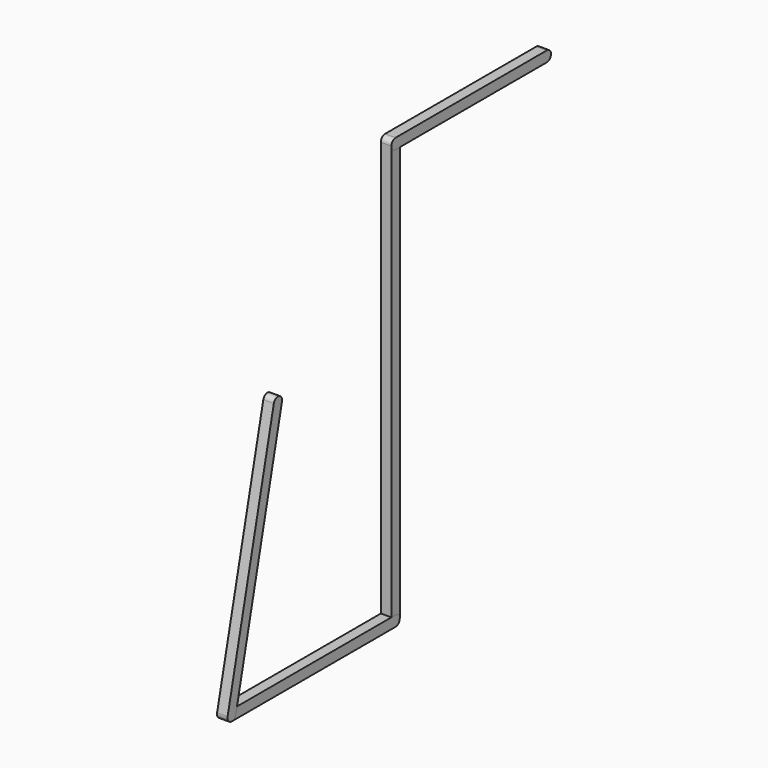
from build123d import *

# Parameters (mm, degrees)
F1_DEPTH = 25.4
F2_DEPTH = 25.4
F3_DEPTH = 25.4
F4_DEPTH = 25.4


with BuildPart() as f1:
    # F0 (on Right) → F1 (new body)
    with BuildSketch(Plane.YZ):
        with BuildLine():
            ThreePointArc((12.7, 1016), (8.9802561211, 1024.9802561211), (0, 1028.7))
            ThreePointArc((0, 1028.7), (-8.9802561211, 1024.9802561211), (-12.7, 1016))
            ThreePointArc((-12.7, 1016), (-8.9802561211, 1007.0197438789), (0, 1003.3))
            ThreePointArc((0, 1003.3), (8.9802561211, 1007.0197438789), (12.7, 1016))
        make_face()
        with BuildLine():
            Line((0, 1003.3), (12.7, 1003.3))
            Line((12.7, 1003.3), (12.7, 1016))
            ThreePointArc((12.7, 1016), (8.9802561211, 1007.0197438789), (0, 1003.3))
        make_face()
        with BuildLine():
            ThreePointArc((0, -12.7), (8.9802561211, -8.9802561211), (12.7, 0))
            ThreePointArc((12.7, 0), (8.9802561211, 8.9802561211), (0, 12.7))
            ThreePointArc((0, 12.7), (-8.9802561211, 8.9802561211), (-12.7, 0))
            ThreePointArc((-12.7, 0), (-8.9802561211, -8.9802561211), (0, -12.7))
        make_face()
        with BuildLine():
            Line((0, 12.7), (-12.7, 12.7))
            Line((-12.7, 12.7), (-12.7, 0))
            ThreePointArc((-12.7, 0), (-8.9802561211, 8.9802561211), (0, 12.7))
        make_face()
        with BuildLine():
            Line((12.7, 0), (12.7, 1003.3))
            Line((12.7, 1003.3), (0, 1003.3))
            ThreePointArc((0, 1003.3), (-8.9802561211, 1007.0197438789), (-12.7, 1016))
            Line((-12.7, 1016), (-12.7, 12.7))
            Line((-12.7, 12.7), (0, 12.7))
            ThreePointArc((0, 12.7), (8.9802561211, 8.9802561211), (12.7, 0))
        make_face()
    extrude(amount=F1_DEPTH)


with BuildPart() as f2:
    # F0 (on Right) → F2 (new body)
    with BuildSketch(Plane.YZ):
        with BuildLine():
            ThreePointArc((457.2, 1003.3), (444.5, 1016), (457.2, 1028.7))
            Line((457.2, 1028.7), (0, 1028.7))
            ThreePointArc((0, 1028.7), (8.9802561211, 1024.9802561211), (12.7, 1016))
            Line((12.7, 1016), (12.7, 1003.3))
            Line((12.7, 1003.3), (457.2, 1003.3))
        make_face()
        with BuildLine():
            ThreePointArc((457.2, 1003.3), (466.1802561211, 1007.0197438789), (469.9, 1016))
            ThreePointArc((469.9, 1016), (466.1802561211, 1024.9802561211), (457.2, 1028.7))
            ThreePointArc((457.2, 1028.7), (444.5, 1016), (457.2, 1003.3))
        make_face()
        with BuildLine():
            ThreePointArc((12.7, 1016), (8.9802561211, 1024.9802561211), (0, 1028.7))
            ThreePointArc((0, 1028.7), (-8.9802561211, 1024.9802561211), (-12.7, 1016))
            ThreePointArc((-12.7, 1016), (-8.9802561211, 1007.0197438789), (0, 1003.3))
            ThreePointArc((0, 1003.3), (8.9802561211, 1007.0197438789), (12.7, 1016))
        make_face()
        with BuildLine():
            Line((0, 1003.3), (12.7, 1003.3))
            Line((12.7, 1003.3), (12.7, 1016))
            ThreePointArc((12.7, 1016), (8.9802561211, 1007.0197438789), (0, 1003.3))
        make_face()
    extrude(amount=F2_DEPTH)


with BuildPart() as f3:
    # F0 (on Right) → F3 (new body)
    with BuildSketch(Plane.YZ):
        with BuildLine():
            ThreePointArc((-507.6791004453, 2.8368771854), (-505.2327322589, -7.9139642325), (-495.3, -12.7))
            ThreePointArc((-495.3, -12.7), (-487.3860357675, -9.9327322589), (-482.9208995547, -2.8368771854))
            ThreePointArc((-482.9208995547, -2.8368771854), (-482.6804798892, -1.4274845611), (-482.6, 0))
            ThreePointArc((-482.6, 0), (-486.3197438789, 8.9802561211), (-495.3, 12.7))
            ThreePointArc((-495.3, 12.7), (-503.2139642325, 9.9327322589), (-507.6791004453, 2.8368771854))
        make_face()
        with BuildLine():
            Line((-12.7, 0), (-12.7, 12.7))
            Line((-12.7, 12.7), (-479.3603651997, 12.7))
            Line((-479.3603651997, 12.7), (-482.9208995547, -2.8368771854))
            ThreePointArc((-482.9208995547, -2.8368771854), (-487.3860357675, -9.9327322589), (-495.3, -12.7))
            Line((-495.3, -12.7), (0, -12.7))
            ThreePointArc((0, -12.7), (-8.9802561211, -8.9802561211), (-12.7, 0))
        make_face()
        with BuildLine():
            Line((-482.9208995547, -2.8368771854), (-479.3603651997, 12.7))
            Line((-479.3603651997, 12.7), (-495.3, 12.7))
            ThreePointArc((-495.3, 12.7), (-486.3197438789, 8.9802561211), (-482.6, 0))
            ThreePointArc((-482.6, 0), (-482.6804798892, -1.4274845611), (-482.9208995547, -2.8368771854))
        make_face()
        with BuildLine():
            Line((0, 12.7), (-12.7, 12.7))
            Line((-12.7, 12.7), (-12.7, 0))
            ThreePointArc((-12.7, 0), (-8.9802561211, 8.9802561211), (0, 12.7))
        make_face()
        with BuildLine():
            ThreePointArc((0, -12.7), (8.9802561211, -8.9802561211), (12.7, 0))
            ThreePointArc((12.7, 0), (8.9802561211, 8.9802561211), (0, 12.7))
            ThreePointArc((0, 12.7), (-8.9802561211, 8.9802561211), (-12.7, 0))
            ThreePointArc((-12.7, 0), (-8.9802561211, -8.9802561211), (0, -12.7))
        make_face()
    extrude(amount=F3_DEPTH)


with BuildPart() as f4:
    # F0 (on Right) → F4 (new body)
    with BuildSketch(Plane.YZ):
        with BuildLine():
            ThreePointArc((-507.6791004453, 2.8368771854), (-505.2327322589, -7.9139642325), (-495.3, -12.7))
            ThreePointArc((-495.3, -12.7), (-487.3860357675, -9.9327322589), (-482.9208995547, -2.8368771854))
            ThreePointArc((-482.9208995547, -2.8368771854), (-482.6804798892, -1.4274845611), (-482.6, 0))
            ThreePointArc((-482.6, 0), (-486.3197438789, 8.9802561211), (-495.3, 12.7))
            ThreePointArc((-495.3, 12.7), (-503.2139642325, 9.9327322589), (-507.6791004453, 2.8368771854))
        make_face()
        with BuildLine():
            Line((-482.9208995547, -2.8368771854), (-479.3603651997, 12.7))
            Line((-479.3603651997, 12.7), (-495.3, 12.7))
            ThreePointArc((-495.3, 12.7), (-486.3197438789, 8.9802561211), (-482.6, 0))
            ThreePointArc((-482.6, 0), (-482.6804798892, -1.4274845611), (-482.9208995547, -2.8368771854))
        make_face()
        with BuildLine():
            Line((-495.3, 12.7), (-479.3603651997, 12.7))
            Line((-479.3603651997, 12.7), (-343.2208995547, 606.7631228146))
            ThreePointArc((-343.2208995547, 606.7631228146), (-358.4368771854, 597.2208995547), (-367.9791004453, 612.4368771854))
            Line((-367.9791004453, 612.4368771854), (-507.6791004453, 2.8368771854))
            ThreePointArc((-507.6791004453, 2.8368771854), (-503.2139642325, 9.9327322589), (-495.3, 12.7))
        make_face()
        with BuildLine():
            ThreePointArc((-367.9791004453, 612.4368771854), (-358.4368771854, 597.2208995547), (-343.2208995547, 606.7631228146))
            ThreePointArc((-343.2208995547, 606.7631228146), (-342.9804798892, 608.1725154389), (-342.9, 609.6))
            ThreePointArc((-342.9, 609.6), (-354.1725154389, 622.2195201108), (-367.9791004453, 612.4368771854))
        make_face()
    extrude(amount=F4_DEPTH)


solid = Compound([f1.part, f2.part, f3.part, f4.part])
